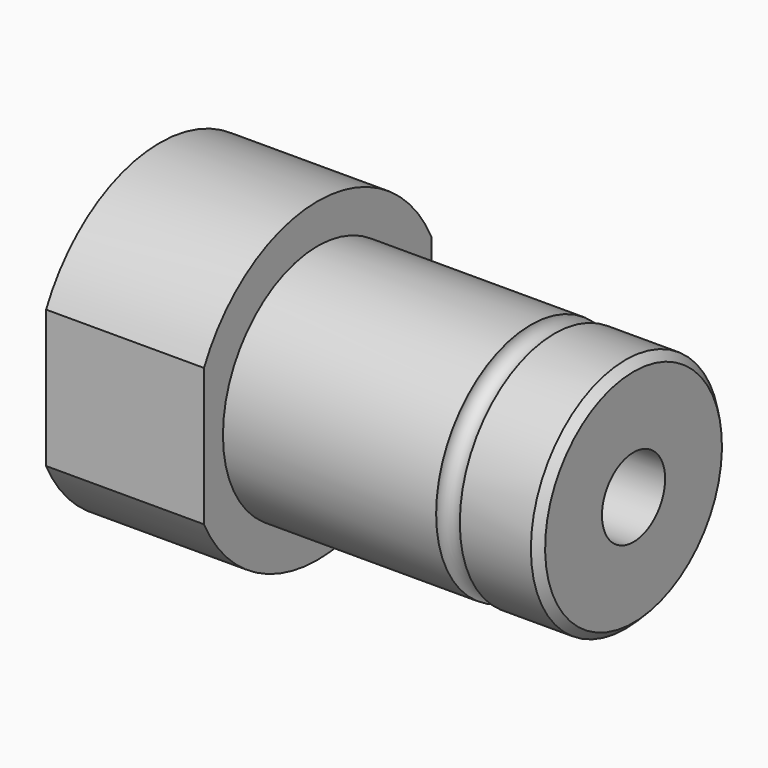
from build123d import *

# Parameters (mm, degrees)
F3_R     = 1.5
F5_SIZE  = 1
F6_R     = 5
F7_DEPTH = 60.001
F9_DEPTH = 20


with BuildPart() as f2:
    # F0 (on Front) → F2 (revolve)
    with BuildSketch(Plane.XZ):
        Polygon((0, 20), (0, 0), (60, 0), (60, 15), (20, 15), (20, 20), align=None)
    revolve(axis=Axis((30, 0, 0), (-1, 0, 0)))

    # F3 (on Front) → F4 (revolve, cut)
    with BuildSketch(Plane.XZ):
        with Locations((48.5, 15)):
            Circle(F3_R)
    revolve(axis=Axis((60, 0, 0), (-1, 0, 0)), mode=Mode.SUBTRACT)

    # F5
    f5_edges = [f2.edges().sort_by_distance(p)[0] for p in [
        (60, 0, -15),
    ]]
    chamfer(f5_edges, length=F5_SIZE)

    # F6 (on face) → F7 (cut, through all)
    with BuildSketch(Plane.YZ.offset(60)):
        Circle(F6_R)
    extrude(amount=-F7_DEPTH, mode=Mode.SUBTRACT)

    # F8 (on face) → F9 (cut, through all)
    with BuildSketch(Plane(origin=(0, 0, 0), x_dir=(0, -1, 0), z_dir=(-1, 0, 0))):
        with BuildLine():
            ThreePointArc((-18, 8.717798), (-20, 0), (-18, -8.717798))
            Line((-18, -8.717798), (-18, 8.717798))
        make_face()
        with BuildLine():
            Line((18, 8.717798), (18, -8.717798))
            ThreePointArc((18, -8.717798), (19.493589, -4.472136), (20, 0))
            ThreePointArc((20, 0), (19.493589, 4.472136), (18, 8.717798))
        make_face()
    extrude(amount=-F9_DEPTH, mode=Mode.SUBTRACT)


solid = f2.part
